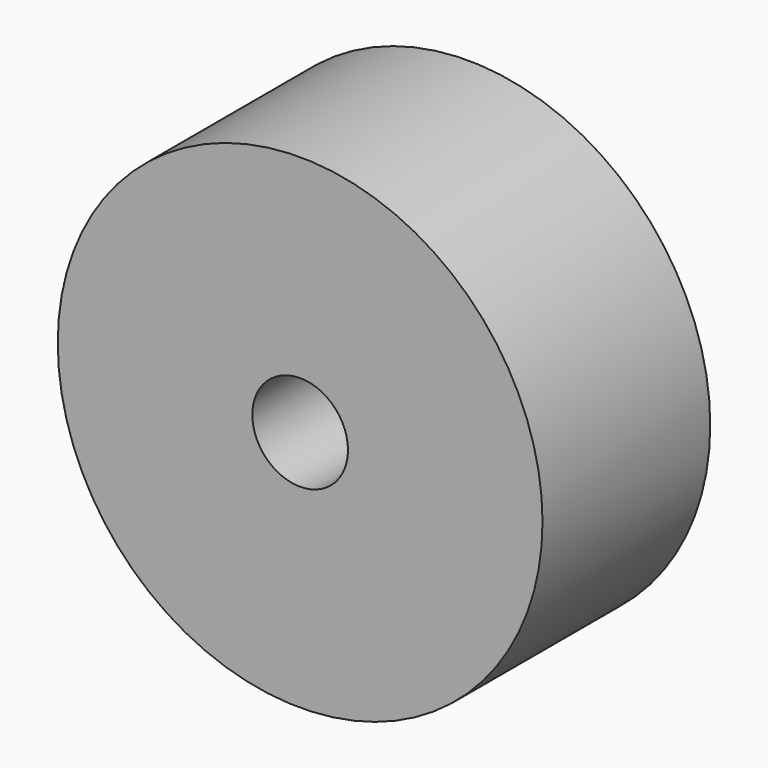
from build123d import *

# Parameters (mm, degrees)
F0_R     = 29.364345
F0_R_2   = 15.986139
F0_R_3   = 5.796825
F1_DEPTH = 25.4
F2_DEPTH = 7.62


with BuildPart() as f1:
    # F0 (on Front) → F1 (new body)
    with BuildSketch(Plane.XZ):
        Circle(F0_R)
        Circle(F0_R_2, mode=Mode.SUBTRACT)
        Circle(F0_R_2)
        Circle(F0_R_3, mode=Mode.SUBTRACT)
    extrude(amount=F1_DEPTH)

    # F0 (on Front) → F2 (cut)
    with BuildSketch(Plane.XZ):
        Circle(F0_R_2)
        Circle(F0_R_3, mode=Mode.SUBTRACT)
    extrude(amount=F2_DEPTH, mode=Mode.SUBTRACT)


solid = f1.part
